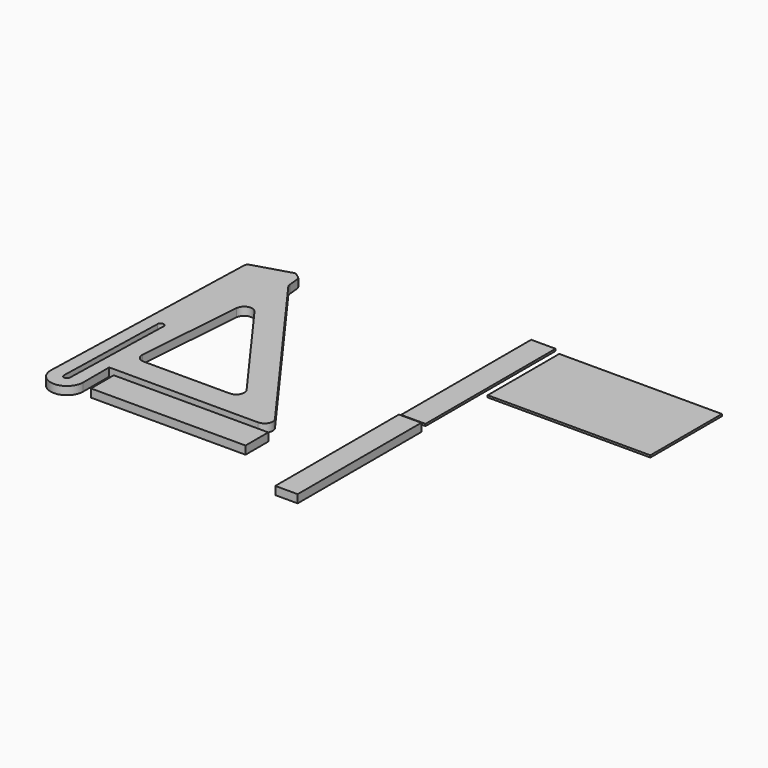
from build123d import *

# Parameters (mm, degrees)
F0_W     = 482.6
F0_H     = 88.9
F0_W_2   = 69.85
F0_H_2   = 482.6
F1_DEPTH = 12.7
F0_W_3   = 76.2
F0_H_3   = 508
F0_W_4   = 508
F0_H_4   = 279.4
F2_DEPTH = 3.175


with BuildPart() as f1:
    # F0 (on Top) → F1 (new body, symmetric)
    with BuildSketch(Plane.XY):
        with Locations((-643.243538, -223.406658)):
            Rectangle(F0_W, F0_H)
        with BuildLine():
            ThreePointArc((-1020.815531, -251.777208), (-971.648586, -305.631893), (-919.308867, -254.855233))
            Line((-919.308867, -254.855233), (-919.308867, -153.255233))
            Line((-919.308867, -153.255233), (-454.422219, -153.255233))
            ThreePointArc((-454.422219, -153.255233), (-431.790654, -139.386591), (-433.873188, -112.925487))
            Line((-433.873188, -112.925487), (-843.758204, 451.232839))
            ThreePointArc((-843.758204, 451.232839), (-846.942959, 457.114525), (-848.481958, 463.623625))
            Line((-848.481958, 463.623625), (-851.849275, 497.141894))
            ThreePointArc((-851.849275, 497.141894), (-853.434831, 502.130929), (-856.898014, 506.056593))
            Line((-856.898014, 506.056593), (-869.116037, 515.159549))
            ThreePointArc((-869.116037, 515.159549), (-874.506086, 517.483789), (-880.365587, 517.135984))
            Line((-880.365587, 517.135984), (-989.823782, 484.175108))
            ThreePointArc((-989.823782, 484.175108), (-996.238933, 479.743863), (-998.856052, 472.399424))
            Line((-998.856052, 472.399424), (-1020.815531, -251.777208))
        make_face()
        with BuildLine():
            Line((-960.580442, -254.855233), (-960.58729, -255.110588))
            ThreePointArc((-960.58729, -255.110588), (-970.364222, -264.376809), (-979.630443, -254.599877))
            Line((-979.630443, -254.599877), (-970.132543, 99.553558))
            ThreePointArc((-970.132543, 99.553558), (-960.355612, 108.819779), (-951.08939, 99.042848))
            Line((-951.08939, 99.042848), (-960.580442, -254.855233))
        make_face(mode=Mode.SUBTRACT)
        with BuildLine():
            ThreePointArc((-872.496188, -77.055233), (-891.121941, -68.924897), (-897.823787, -49.738799))
            Line((-897.823787, -49.738799), (-872.496188, 284.991019))
            ThreePointArc((-872.496188, 284.991019), (-854.100057, 307.510518), (-826.619557, 298.004332))
            Line((-826.619557, 298.004332), (-583.424108, -36.725487))
            ThreePointArc((-583.424108, -36.725487), (-581.341574, -63.186591), (-603.97314, -77.055233))
            Line((-603.97314, -77.055233), (-872.496188, -77.055233))
        make_face(mode=Mode.SUBTRACT)
        with Locations((-177.125344, -147.66659)):
            Rectangle(F0_W_2, F0_H_2)
    extrude(amount=F1_DEPTH, both=True)


with BuildPart() as f2:
    # F0 (on Top) → F2 (new body, symmetric)
    with BuildSketch(Plane.XY):
        with Locations((-180.300344, 363.914206)):
            Rectangle(F0_W_3, F0_H_3)
        with Locations((135.730996, 462.576334)):
            Rectangle(F0_W_4, F0_H_4)
    extrude(amount=F2_DEPTH, both=True)


solid = Compound([f1.part, f2.part])
